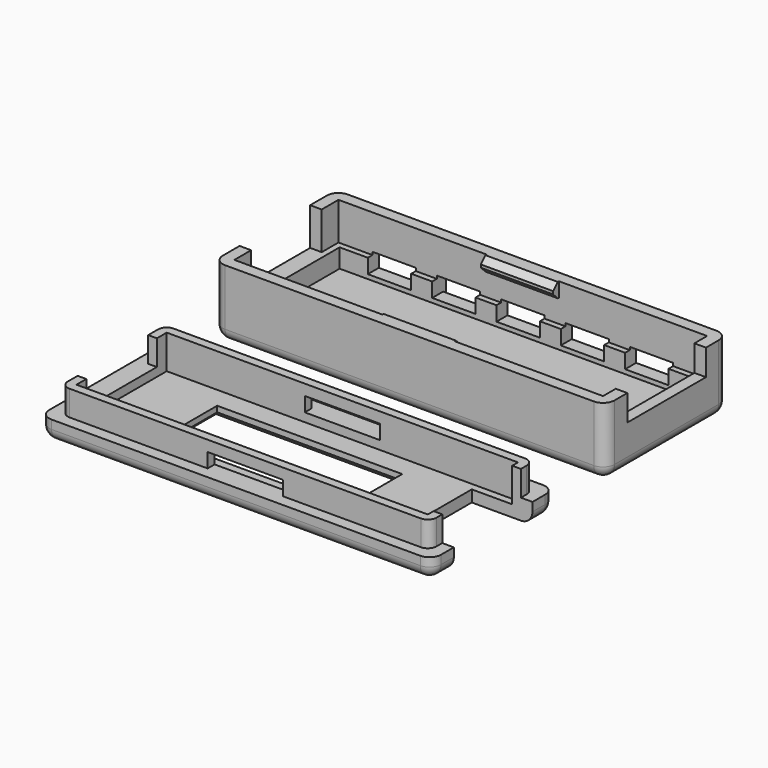
from build123d import *

# Parameters (mm, degrees)
BOX007_W        = 10
BOX007_H        = 13.6
BOX007_DEPTH    = 10
BOX008_W        = 6
BOX008_H        = 10
BOX008_DEPTH    = 2.4
BOX009_W        = 6
BOX009_H        = 10
BOX009_DEPTH    = 2.4
BOX019_W        = 6
BOX019_H        = 10
BOX019_DEPTH    = 2.4
BOX020_W        = 6
BOX020_H        = 10
BOX020_DEPTH    = 2.4
BOX021_W        = 6
BOX021_H        = 10
BOX021_DEPTH    = 2.4
BOX006_W        = 10
BOX006_H        = 12.2
BOX006_DEPTH    = 5.2
BOX003_W        = 49.4
BOX003_H        = 16.4
BOX003_DEPTH    = 2.6
BOX002_W        = 51
BOX002_H        = 18
BOX002_DEPTH    = 2.6
BOX005_W        = 10
BOX005_H        = 1
BOX005_DEPTH    = 2
CHAMFER001_SIZE = 0.8
BOX004_W        = 10
BOX004_H        = 1
BOX004_DEPTH    = 2
CHAMFER_SIZE    = 0.8
BOX001_W        = 51
BOX001_H        = 18
BOX001_DEPTH    = 9.4
BOX_W           = 54.2
BOX_H           = 21.2
BOX_DEPTH       = 9.4
FILLET_R        = 1.6
CHAMFER002_SIZE = 0.5
BOX015_W        = 10
BOX015_H        = 12.2
BOX015_DEPTH    = 5.2
BOX016_W        = 10
BOX016_H        = 13.6
BOX016_DEPTH    = 10
BOX017_W        = 10.4
BOX017_H        = 5
BOX017_DEPTH    = 2
BOX018_W        = 10.4
BOX018_H        = 5
BOX018_DEPTH    = 2
BOX014_W        = 25.6
BOX014_H        = 9.8
BOX014_DEPTH    = 1.6
BOX013_W        = 48.6
BOX013_H        = 15.6
BOX013_DEPTH    = 4.8
BOX012_W        = 51
BOX012_H        = 18
BOX012_DEPTH    = 4.7
BOX011_W        = 51
BOX011_H        = 18
BOX011_DEPTH    = 9.4
BOX010_W        = 54.2
BOX010_H        = 21.2
BOX010_DEPTH    = 2.8
FILLET001_R     = 1.6
CHAMFER003_SIZE = 0.8
FILLET002_R     = 1.2


with BuildPart() as usb_buchse:
    # Box007 → Box007 (new body)
    with BuildSketch(Plane(origin=(48, 2.2, 5.8), x_dir=(1, 0, 0), z_dir=(0, 0, 1))):
        with Locations((5, 6.8)):
            Rectangle(BOX007_W, BOX007_H)
    extrude(amount=BOX007_DEPTH)


with BuildPart() as button1:
    # Box008 → Box008 (new body)
    with BuildSketch(Plane(origin=(4.7, 14, 2.2), x_dir=(1, 0, 0), z_dir=(0, 0, 1))):
        with Locations((3, 5)):
            Rectangle(BOX008_W, BOX008_H)
    extrude(amount=BOX008_DEPTH)


with BuildPart() as button2:
    # Box009 → Box009 (new body)
    with BuildSketch(Plane(origin=(13.6, 14, 2.2), x_dir=(1, 0, 0), z_dir=(0, 0, 1))):
        with Locations((3, 5)):
            Rectangle(BOX009_W, BOX009_H)
    extrude(amount=BOX009_DEPTH)


with BuildPart() as button3:
    # Box019 → Box019 (new body)
    with BuildSketch(Plane(origin=(22.5, 14, 2.2), x_dir=(1, 0, 0), z_dir=(0, 0, 1))):
        with Locations((3, 5)):
            Rectangle(BOX019_W, BOX019_H)
    extrude(amount=BOX019_DEPTH)


with BuildPart() as button4:
    # Box020 → Box020 (new body)
    with BuildSketch(Plane(origin=(31.4, 14, 2.2), x_dir=(1, 0, 0), z_dir=(0, 0, 1))):
        with Locations((3, 5)):
            Rectangle(BOX020_W, BOX020_H)
    extrude(amount=BOX020_DEPTH)


with BuildPart() as button5:
    # Box021 → Box021 (new body)
    with BuildSketch(Plane(origin=(40.3, 14, 2.2), x_dir=(1, 0, 0), z_dir=(0, 0, 1))):
        with Locations((3, 5)):
            Rectangle(BOX021_W, BOX021_H)
    extrude(amount=BOX021_DEPTH)


with BuildPart() as bottom_cutouts:
    # Box006 → Box006 (new body)
    with BuildSketch(Plane(origin=(-5, 2.9, 4.2), x_dir=(1, 0, 0), z_dir=(0, 0, 1))):
        with Locations((5, 6.1)):
            Rectangle(BOX006_W, BOX006_H)
    extrude(amount=BOX006_DEPTH)

    # Fusion001: union USB_Buchse, Button1, Button2, Button3, Button4, Button5
    add(usb_buchse.part)
    add(button1.part)
    add(button2.part)
    add(button3.part)
    add(button4.part)
    add(button5.part)


with BuildPart() as auflage_innen:
    # Box003 → Box003 (new body)
    with BuildSketch(Plane(origin=(0.8, 0.8, 1.6), x_dir=(1, 0, 0), z_dir=(0, 0, 1))):
        with Locations((24.7, 8.2)):
            Rectangle(BOX003_W, BOX003_H)
    extrude(amount=BOX003_DEPTH)


with BuildPart() as auflage:
    # Box002 → Box002 (new body)
    with BuildSketch(Plane.XY.offset(1.6)):
        with Locations((25.5, 9)):
            Rectangle(BOX002_W, BOX002_H)
    extrude(amount=BOX002_DEPTH)

    # Cut001: cut Auflage_innen
    add(auflage_innen.part, mode=Mode.SUBTRACT)


with BuildPart() as haken2:
    # Box005 → Box005 (new body)
    with BuildSketch(Plane(origin=(20.5, 17, 7.4), x_dir=(1, 0, 0), z_dir=(0, 0, 1))):
        with Locations((5, 0.5)):
            Rectangle(BOX005_W, BOX005_H)
    extrude(amount=BOX005_DEPTH)

    # Chamfer001
    chamfer001_edges = [haken2.edges().sort_by_distance(p)[0] for p in [
        (25.5, 17, 7.4),
        (25.5, 17, 9.4),
    ]]
    chamfer(chamfer001_edges, length=CHAMFER001_SIZE)


with BuildPart() as haken1:
    # Box004 → Box004 (new body)
    with BuildSketch(Plane(origin=(20.5, 0, 7.4), x_dir=(1, 0, 0), z_dir=(0, 0, 1))):
        with Locations((5, 0.5)):
            Rectangle(BOX004_W, BOX004_H)
    extrude(amount=BOX004_DEPTH)

    # Chamfer
    chamfer_edges = [haken1.edges().sort_by_distance(p)[0] for p in [
        (25.5, 1, 7.4),
        (25.5, 1, 9.4),
    ]]
    chamfer(chamfer_edges, length=CHAMFER_SIZE)


with BuildPart() as unten_innen:
    # Box001 → Box001 (new body)
    with BuildSketch(Plane.XY.offset(1.6)):
        with Locations((25.5, 9)):
            Rectangle(BOX001_W, BOX001_H)
    extrude(amount=BOX001_DEPTH)


with BuildPart() as case_bottom:
    # Box → Box (new body)
    with BuildSketch(Plane(origin=(-1.6, -1.6, 0), x_dir=(1, 0, 0), z_dir=(0, 0, 1))):
        with Locations((27.1, 10.6)):
            Rectangle(BOX_W, BOX_H)
    extrude(amount=BOX_DEPTH)

    # Cut: cut unten_innen
    add(unten_innen.part, mode=Mode.SUBTRACT)

    # Fillet
    fillet_edges = [case_bottom.edges().sort_by_distance(p)[0] for p in [
        (-1.6, -1.6, 4.7),
        (-1.6, 19.6, 4.7),
        (-1.6, 9, 0),
        (25.5, -1.6, 0),
        (52.6, -1.6, 4.7),
        (25.5, 19.6, 0),
        (52.6, 19.6, 4.7),
        (52.6, 9, 0),
    ]]
    fillet(fillet_edges, radius=FILLET_R)

    # Fusion: union Auflage, Haken2, Haken1
    add(auflage.part)
    add(haken2.part)
    add(haken1.part)

    # Cut004: cut bottom_cutouts
    add(bottom_cutouts.part, mode=Mode.SUBTRACT)

    # Chamfer002
    chamfer002_edges = [case_bottom.edges().sort_by_distance(p)[0] for p in [
        (43.3, 19.6, 4.6),
        (46.3, 19.6, 3.4),
        (43.3, 19.6, 2.2),
        (40.3, 19.6, 3.4),
        (34.4, 19.6, 4.6),
        (37.4, 19.6, 3.4),
        (34.4, 19.6, 2.2),
        (31.4, 19.6, 3.4),
        (16.6, 19.6, 4.6),
        (19.6, 19.6, 3.4),
        (16.6, 19.6, 2.2),
        (25.5, 19.6, 4.6),
        (28.5, 19.6, 3.4),
        (25.5, 19.6, 2.2),
        (22.5, 19.6, 3.4),
        (7.7, 19.6, 4.6),
        (10.7, 19.6, 3.4),
        (7.7, 19.6, 2.2),
        (4.7, 19.6, 3.4),
    ]]
    chamfer(chamfer002_edges, length=CHAMFER002_SIZE)


with BuildPart() as obj1:
    # Box015 → Box015 (new body)
    with BuildSketch(Plane(origin=(-5, -27.1, 2.8), x_dir=(1, 0, 0), z_dir=(0, 0, 1))):
        with Locations((5, 6.1)):
            Rectangle(BOX015_W, BOX015_H)
    extrude(amount=BOX015_DEPTH)


with BuildPart() as usb_buchse2:
    # Box016 → Box016 (new body)
    with BuildSketch(Plane(origin=(44.2, -27.8, 0), x_dir=(1, 0, 0), z_dir=(0, 0, 1))):
        with Locations((5, 6.8)):
            Rectangle(BOX016_W, BOX016_H)
    extrude(amount=BOX016_DEPTH)


with BuildPart() as oese1:
    # Box017 → Box017 (new body)
    with BuildSketch(Plane(origin=(20.3, -33, 2.8), x_dir=(1, 0, 0), z_dir=(0, 0, 1))):
        with Locations((5.2, 2.5)):
            Rectangle(BOX017_W, BOX017_H)
    extrude(amount=BOX017_DEPTH)


with BuildPart() as oese2:
    # Box018 → Box018 (new body)
    with BuildSketch(Plane(origin=(20.3, -15, 2.8), x_dir=(1, 0, 0), z_dir=(0, 0, 1))):
        with Locations((5.2, 2.5)):
            Rectangle(BOX018_W, BOX018_H)
    extrude(amount=BOX018_DEPTH)


with BuildPart() as top_cutouts:
    # Box014 → Box014 (new body)
    with BuildSketch(Plane(origin=(10.5, -25.9, 0), x_dir=(1, 0, 0), z_dir=(0, 0, 1))):
        with Locations((12.8, 4.9)):
            Rectangle(BOX014_W, BOX014_H)
    extrude(amount=BOX014_DEPTH)

    # Fusion003: union obj1, USB_Buchse2, Oese1, Oese2
    add(obj1.part)
    add(usb_buchse2.part)
    add(oese1.part)
    add(oese2.part)


with BuildPart() as rahmen_innen:
    # Box013 → Box013 (new body)
    with BuildSketch(Plane(origin=(1.2, -28.8, 1.6), x_dir=(1, 0, 0), z_dir=(0, 0, 1))):
        with Locations((24.3, 7.8)):
            Rectangle(BOX013_W, BOX013_H)
    extrude(amount=BOX013_DEPTH)


with BuildPart() as rahmen:
    # Box012 → Box012 (new body)
    with BuildSketch(Plane(origin=(0, -30, 1.6), x_dir=(1, 0, 0), z_dir=(0, 0, 1))):
        with Locations((25.5, 9)):
            Rectangle(BOX012_W, BOX012_H)
    extrude(amount=BOX012_DEPTH)

    # Cut003: cut Rahmen_innen
    add(rahmen_innen.part, mode=Mode.SUBTRACT)


with BuildPart() as oben_innen:
    # Box011 → Box011 (new body)
    with BuildSketch(Plane(origin=(0, -30, 1.6), x_dir=(1, 0, 0), z_dir=(0, 0, 1))):
        with Locations((25.5, 9)):
            Rectangle(BOX011_W, BOX011_H)
    extrude(amount=BOX011_DEPTH)


with BuildPart() as case_top:
    # Box010 → Box010 (new body)
    with BuildSketch(Plane(origin=(-1.6, -31.6, 0), x_dir=(1, 0, 0), z_dir=(0, 0, 1))):
        with Locations((27.1, 10.6)):
            Rectangle(BOX010_W, BOX010_H)
    extrude(amount=BOX010_DEPTH)

    # Cut002: cut oben_innen
    add(oben_innen.part, mode=Mode.SUBTRACT)

    # Fillet001
    fillet001_edges = [case_top.edges().sort_by_distance(p)[0] for p in [
        (-1.6, -31.6, 1.4),
        (-1.6, -10.4, 1.4),
        (-1.6, -21, 0),
        (25.5, -31.6, 0),
        (52.6, -31.6, 1.4),
        (25.5, -10.4, 0),
        (52.6, -10.4, 1.4),
        (52.6, -21, 0),
    ]]
    fillet(fillet001_edges, radius=FILLET001_R)

    # Fusion002: union Rahmen
    add(rahmen.part)

    # Cut005: cut top_cutouts
    add(top_cutouts.part, mode=Mode.SUBTRACT)

    # Chamfer003
    chamfer003_edges = [case_top.edges().sort_by_distance(p)[0] for p in [
        (23.3, -16.1, 0),
        (10.5, -21, 0),
        (23.3, -25.9, 0),
        (36.1, -21, 0),
    ]]
    chamfer(chamfer003_edges, length=CHAMFER003_SIZE)

    # Fillet002
    fillet002_edges = [case_top.edges().sort_by_distance(p)[0] for p in [
        (51, -12, 4.55),
        (51, -30, 4.55),
        (0, -12, 4.55),
        (0, -30, 4.55),
    ]]
    fillet(fillet002_edges, radius=FILLET002_R)


solid = Compound([case_bottom.part, case_top.part])
